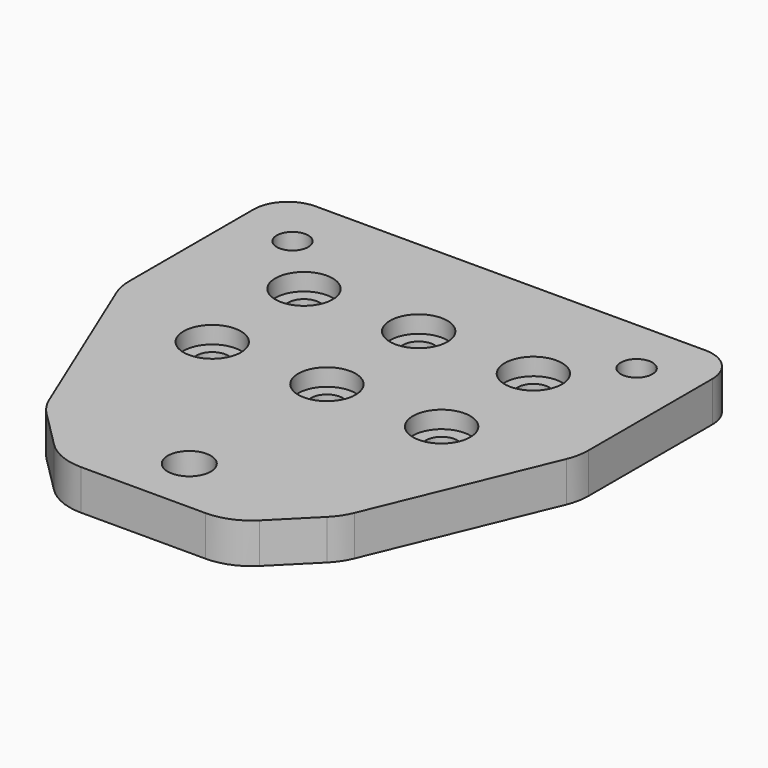
from build123d import *

# Parameters (mm, degrees)
F0_W           = 80
F0_H           = 80
F1_DEPTH       = 7
F3_D           = 7.5
F4_R           = 6
F5_SIZE        = 25
F6_SIZE        = 20
F8_D           = 5.5
F8_CBORE_D     = 10
F8_CBORE_DEPTH = 3
F9_R           = 10
F10_D          = 5.5


with BuildPart() as f1:
    # F0 (on Top) → F1 (new body)
    with BuildSketch(Plane.XY):
        Rectangle(F0_W, F0_H)
    extrude(amount=F1_DEPTH)

    # F3 (through all)
    with Locations(Plane.XY.offset(7)):
        with Locations((0, -30)):
            Hole(F3_D / 2)

    # F4
    f4_edges = [f1.edges().sort_by_distance(p)[0] for p in [
        (-40, 40, 3.5),
        (40, 40, 3.5),
    ]]
    fillet(f4_edges, radius=F4_R)

    # F5
    f5_edges = [f1.edges().sort_by_distance(p)[0] for p in [
        (-40, -40, 3.5),
        (40, -40, 3.5),
    ]]
    chamfer(f5_edges, length=F5_SIZE)

    # F6
    f6_edges = [f1.edges().sort_by_distance(p)[0] for p in [
        (40, -15, 3.5),
        (-40, -15, 3.5),
    ]]
    chamfer(f6_edges, length=F6_SIZE)

    # F8 (through all)
    with Locations(Plane.XY.offset(7)):
        with Locations((-20, 20), (0, 20), (20, 20), (20, 0), (0, 0), (-20, 0)):
            CounterBoreHole(F8_D / 2, F8_CBORE_D / 2, F8_CBORE_DEPTH)

    # F9
    f9_edges = [f1.edges().sort_by_distance(p)[0] for p in [
        (40, 5, 3.5),
        (25.857864, -29.142136, 3.5),
        (15, -40, 3.5),
        (-15, -40, 3.5),
        (-40, 5, 3.5),
        (-25.857864, -29.142136, 3.5),
    ]]
    fillet(f9_edges, radius=F9_R)

    # F10 (through all)
    with Locations(Plane.XY.offset(7)):
        with Locations((-30, 30), (30, 30)):
            Hole(F10_D / 2)


solid = f1.part
